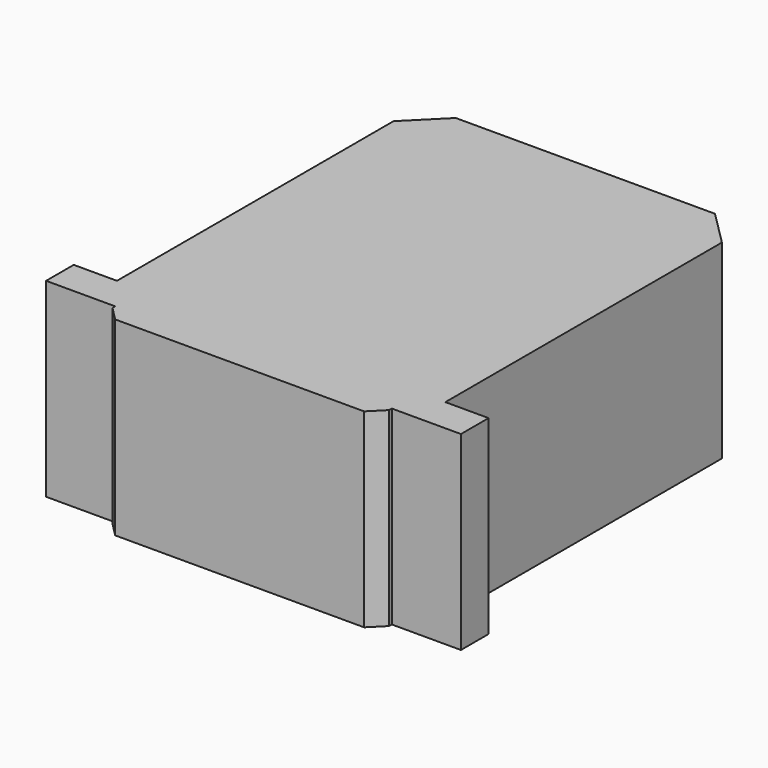
from build123d import *

# Parameters (mm, degrees)
BOX002_W        = 12
BOX002_H        = 1
BOX002_DEPTH    = 5.5
BOX003_W        = 9.5
BOX003_H        = 11
BOX003_DEPTH    = 5.5
BOX013_W        = 8
BOX013_H        = 1
BOX013_DEPTH    = 5.5
CHAMFER011_SIZE = 0.4
CHAMFER014_SIZE = 1


with BuildPart() as cube002:
    # Box002 → Box002 (new body)
    with BuildSketch(Plane(origin=(36, 75, 1.25), x_dir=(1, 0, 0), z_dir=(0, 0, 1))):
        with Locations((6, 0.5)):
            Rectangle(BOX002_W, BOX002_H)
    extrude(amount=BOX002_DEPTH)


with BuildPart() as cube003:
    # Box003 → Box003 (new body)
    with BuildSketch(Plane(origin=(37.25, 76, 1.25), x_dir=(1, 0, 0), z_dir=(0, 0, 1))):
        with Locations((4.75, 5.5)):
            Rectangle(BOX003_W, BOX003_H)
    extrude(amount=BOX003_DEPTH)


with BuildPart() as obj1:
    # Box013 → Box013 (new body)
    with BuildSketch(Plane(origin=(38, 74.5, 1.25), x_dir=(1, 0, 0), z_dir=(0, 0, 1))):
        with Locations((4, 0.5)):
            Rectangle(BOX013_W, BOX013_H)
    extrude(amount=BOX013_DEPTH)

    # Fusion005: union Cube002, Cube003
    add(cube002.part)
    add(cube003.part)

    # Chamfer011
    chamfer011_edges = [obj1.edges().sort_by_distance(p)[0] for p in [
        (38, 74.5, 4),
        (46, 74.5, 4),
    ]]
    chamfer(chamfer011_edges, length=CHAMFER011_SIZE)

    # Chamfer014
    chamfer014_edges = [obj1.edges().sort_by_distance(p)[0] for p in [
        (37.25, 87, 4),
        (46.75, 87, 4),
    ]]
    chamfer(chamfer014_edges, length=CHAMFER014_SIZE)


with BuildPart() as obj1_1:
    # Chamfer014 placement: moved
    add(obj1.part.moved(Location((0, 2, 0))))


solid = obj1_1.part
